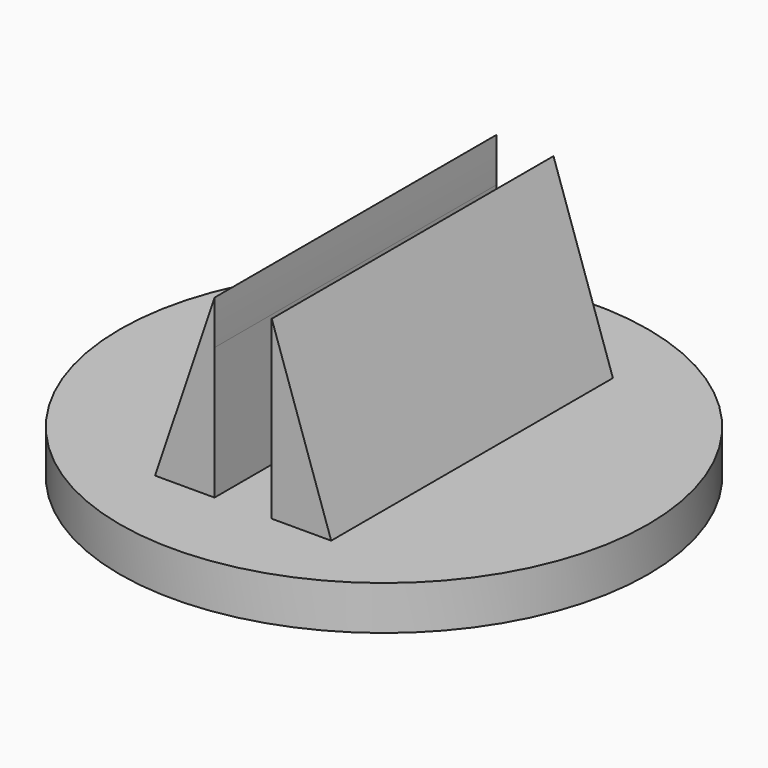
from build123d import *

# Parameters (mm, degrees)
F0_R     = 6
F1_DEPTH = 1
F3_DEPTH = 4


with BuildPart() as f1:
    # F0 (on Top) → F1 (new body)
    with BuildSketch(Plane.XY):
        Circle(F0_R)
    extrude(amount=F1_DEPTH)

    # F2 (on Front) → F3 (join, symmetric)
    with BuildSketch(Plane.XZ):
        Polygon((0.65, 4), (0.65, 1), (2, 1), (0.65, 5), align=None)
        Polygon((-0.65, 5), (-2, 1), (-0.65, 1), (-0.65, 4), align=None)
        with BuildLine():
            ThreePointArc((-0.65, 4), (-0.645, 4.5), (-0.65, 5))
            Line((-0.65, 5), (-0.65, 4))
        make_face()
        with BuildLine():
            ThreePointArc((0.65, 5), (0.645, 4.5), (0.65, 4))
            Line((0.65, 4), (0.65, 5))
        make_face()
    extrude(amount=F3_DEPTH, both=True)


solid = f1.part
